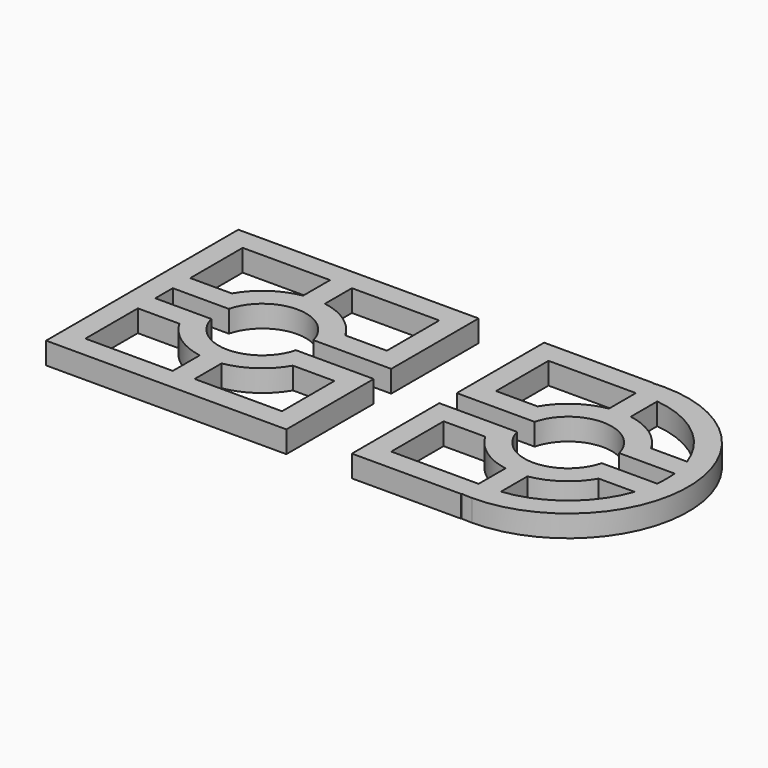
from build123d import *

# Parameters (mm, degrees)
F1_DEPTH = 300


with BuildPart() as f1:
    # F0 (on Top) → F1 (new body)
    with BuildSketch(Plane.XY):
        with BuildLine():
            Line((1650, 1650), (-1650, 1650))
            Line((-1650, 1650), (-1650, 450))
            Line((-1650, 450), (-1650, 150))
            Line((-1650, 150), (-1650, -191.250503))
            Line((-1650, -191.250503), (-1650, -450))
            Line((-1650, -450), (-1650, -1650))
            Line((-1650, -1650), (1650, -1650))
            Line((1650, -1650), (1650, -1350))
            Line((1650, -1350), (1650, -150))
            Line((1650, -150), (580.947502, -150))
            ThreePointArc((580.947502, -150), (0, -600), (-580.947502, -150))
            Line((-580.947502, -150), (-1350, -150))
            Line((-1350, -150), (-1350, 150))
            Line((-1350, 150), (-580.947502, 150))
            ThreePointArc((-580.947502, 150), (0, 600), (580.947502, 150))
            Line((580.947502, 150), (1650, 150))
            Line((1650, 150), (1650, 1650))
        make_face()
        with BuildLine():
            Line((-150, -1350), (-1350, -1350))
            Line((-1350, -1350), (-1350, -450))
            Line((-1350, -450), (-779.422863, -450))
            ThreePointArc((-779.422863, -450), (-513.603954, -739.060876), (-150, -887.411967))
            Line((-150, -887.411967), (-150, -1350))
        make_face(mode=Mode.SUBTRACT)
        with BuildLine():
            Line((1350, -450), (1350, -1350))
            Line((1350, -1350), (150, -1350))
            Line((150, -1350), (150, -887.411967))
            ThreePointArc((150, -887.411967), (513.603954, -739.060876), (779.422863, -450))
            Line((779.422863, -450), (1350, -450))
        make_face(mode=Mode.SUBTRACT)
        with BuildLine():
            Line((-1350, 450), (-1350, 1350))
            Line((-1350, 1350), (-150, 1350))
            Line((-150, 1350), (-150, 887.411967))
            ThreePointArc((-150, 887.411967), (-513.603954, 739.060876), (-779.422863, 450))
            Line((-779.422863, 450), (-1350, 450))
        make_face(mode=Mode.SUBTRACT)
        with BuildLine():
            Line((150, 1350), (1350, 1350))
            Line((1350, 1350), (1350, 450))
            Line((1350, 450), (779.422863, 450))
            ThreePointArc((779.422863, 450), (513.603954, 739.060876), (150, 887.411967))
            Line((150, 887.411967), (150, 1350))
        make_face(mode=Mode.SUBTRACT)
        with BuildLine():
            Line((5541.640786, -150), (4780.947502, -150))
            ThreePointArc((4780.947502, -150), (4200, -600), (3619.052498, -150))
            Line((3619.052498, -150), (2550, -150))
            Line((2550, -150), (2550, -1650))
            Line((2550, -1650), (4050, -1650))
            Line((4050, -1650), (4050, -1643.167673))
            ThreePointArc((4050, -1643.167673), (4124.922239, -1648.291033), (4200, -1650))
            ThreePointArc((4200, -1650), (5850, 0), (4200, 1650))
            ThreePointArc((4200, 1650), (4124.922239, 1648.291033), (4050, 1643.167673))
            Line((4050, 1643.167673), (4050, 1650))
            Line((4050, 1650), (2550, 1650))
            Line((2550, 1650), (2550, 150))
            Line((2550, 150), (3619.052498, 150))
            ThreePointArc((3619.052498, 150), (4200, 600), (4780.947502, 150))
            Line((4780.947502, 150), (5541.640786, 150))
            ThreePointArc((5541.640786, 150), (5550, 0), (5541.640786, -150))
        make_face()
        with BuildLine():
            Line((2850, -450), (3420.577137, -450))
            ThreePointArc((3420.577137, -450), (3686.396046, -739.060876), (4050, -887.411967))
            Line((4050, -887.411967), (4050, -1350))
            Line((4050, -1350), (2850, -1350))
            Line((2850, -1350), (2850, -450))
        make_face(mode=Mode.SUBTRACT)
        with BuildLine():
            ThreePointArc((5472.792206, -450), (5039.547639, -1057.194287), (4350, -1341.640786))
            Line((4350, -1341.640786), (4350, -887.411967))
            ThreePointArc((4350, -887.411967), (4713.603954, -739.060876), (4979.422863, -450))
            Line((4979.422863, -450), (5472.792206, -450))
        make_face(mode=Mode.SUBTRACT)
        with BuildLine():
            Line((2850, 450), (2850, 1350))
            Line((2850, 1350), (4050, 1350))
            Line((4050, 1350), (4050, 887.411967))
            ThreePointArc((4050, 887.411967), (3686.396046, 739.060876), (3420.577137, 450))
            Line((3420.577137, 450), (2850, 450))
        make_face(mode=Mode.SUBTRACT)
        with BuildLine():
            Line((4350, 887.411967), (4350, 1341.640786))
            ThreePointArc((4350, 1341.640786), (5039.547639, 1057.194287), (5472.792206, 450))
            Line((5472.792206, 450), (4979.422863, 450))
            ThreePointArc((4979.422863, 450), (4713.603954, 739.060876), (4350, 887.411967))
        make_face(mode=Mode.SUBTRACT)
    extrude(amount=-F1_DEPTH)


solid = f1.part
